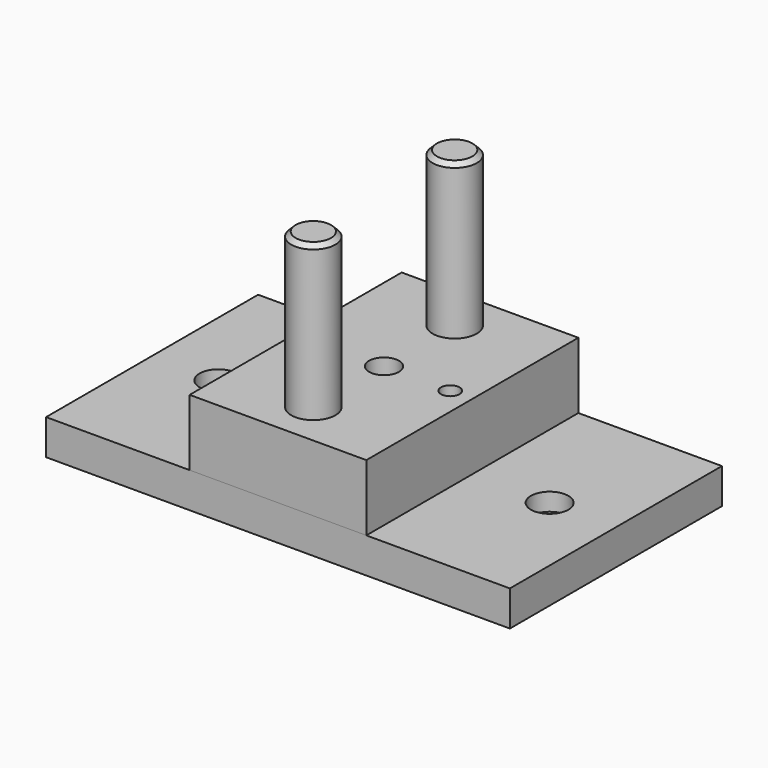
from build123d import *

# Parameters (mm, degrees)
F0_W           = 105
F0_H           = 60
F1_DEPTH       = 8
F2_D           = 8.5
F2_CBORE_D     = 14.25
F2_CBORE_DEPTH = 4
F3_D           = 8.8
F4_D           = 4.2
F4_CBORE_D     = 9.75
F4_CBORE_DEPTH = 5
F5_W           = 40
F5_H           = 60
F6_DEPTH       = 15
F7_D           = 10
F8_D           = 4.2
F9_D           = 6.8
F10_R          = 5
F11_DEPTH      = 50
F12_SIZE       = 1
F12_2_SIZE     = 1


with BuildPart() as f1:
    # F0 (on Top) → F1 (new body)
    with BuildSketch(Plane.XY):
        Rectangle(F0_W, F0_H)
    extrude(amount=F1_DEPTH)

    # F2 (through all)
    with Locations(Plane(origin=(0, 0, 0), x_dir=(1, 0, 0), z_dir=(0, 0, -1))):
        with Locations((-37.5, 0), (37.5, 0)):
            CounterBoreHole(F2_D / 2, F2_CBORE_D / 2, F2_CBORE_DEPTH)

    # F3 (through all)
    with Locations(Plane(origin=(0, 0, 0), x_dir=(1, 0, 0), z_dir=(0, 0, -1))):
        with Locations((0, 0)):
            Hole(F3_D / 2)

    # F4 (through all)
    with Locations(Plane(origin=(0, 0, 0), x_dir=(1, 0, 0), z_dir=(0, 0, -1))):
        with Locations((-15, 0), (15, 0)):
            CounterBoreHole(F4_D / 2, F4_CBORE_D / 2, F4_CBORE_DEPTH)


with BuildPart() as f6:
    # F5 (on face) → F6 (new body)
    with BuildSketch(Plane.XY.offset(8)):
        Rectangle(F5_W, F5_H)
    extrude(amount=F6_DEPTH)

    # F7 (through all)
    with Locations(Plane(origin=(0, 0, 8), x_dir=(1, 0, 0), z_dir=(0, 0, -1))):
        with Locations((0, -20), (0, 20)):
            Hole(F7_D / 2)

    # F8 (through all)
    with Locations(Plane(origin=(0, 0, 8), x_dir=(1, 0, 0), z_dir=(0, 0, -1))):
        with Locations((-15, 0), (15, 0)):
            Hole(F8_D / 2)

    # F9 (through all)
    with Locations(Plane(origin=(0, 0, 8), x_dir=(1, 0, 0), z_dir=(0, 0, -1))):
        with Locations((0, 0)):
            Hole(F9_D / 2)


with BuildPart() as f11:
    # F10 (on face) → F11 (new body)
    with BuildSketch(Plane.XY.offset(8)):
        with Locations((0, -20)):
            Circle(F10_R)
    extrude(amount=F11_DEPTH)

    # F12
    f12_edges = [f11.edges().sort_by_distance(p)[0] for p in [
        (-5, -20, 58),
    ]]
    chamfer(f12_edges, length=F12_SIZE)


with BuildPart() as f11b:
    # F10 (on face) → F11, piece 2 (new body)
    with BuildSketch(Plane.XY.offset(8)):
        with Locations((0, 20)):
            Circle(F10_R)
    extrude(amount=F11_DEPTH)

    # F12#2
    f12_2_edges = [f11b.edges().sort_by_distance(p)[0] for p in [
        (-5, 20, 58),
    ]]
    chamfer(f12_2_edges, length=F12_2_SIZE)


solid = Compound([f1.part, f6.part, f11.part, f11b.part])
